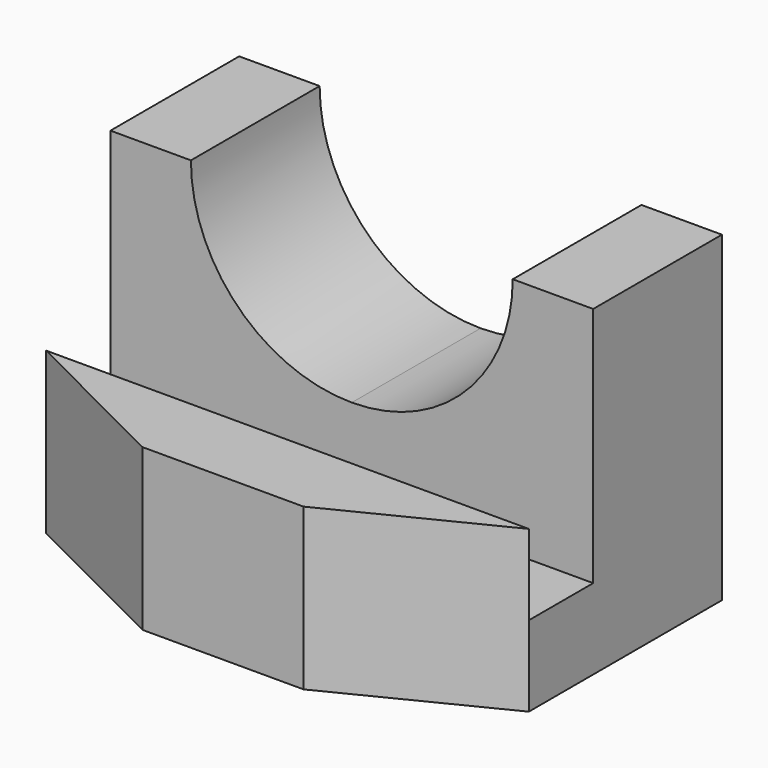
from build123d import *

# Parameters (mm, degrees)
F0_W     = 10
F0_H     = 20
F0_W_2   = 40
F1_DEPTH = 40
F2_DEPTH = 10
F3_DEPTH = 20
F5_DEPTH = 20


with BuildPart() as f1:
    # F0 (on Top) → F1 (new body)
    with BuildSketch(Plane.XY):
        with Locations((5, 30)):
            Rectangle(F0_W, F0_H)
        with Locations((30, 30)):
            Rectangle(F0_W_2, F0_H)
        with Locations((55, 30)):
            Rectangle(F0_W, F0_H)
    extrude(amount=F1_DEPTH)

    # F0 (on Top) → F2 (join)
    with BuildSketch(Plane.XY):
        Polygon((0, 20), (0, 10), (60, 10), (60, 20), (50, 20), (10, 20), align=None)
    extrude(amount=F2_DEPTH)

    # F0 (on Top) → F3 (join)
    with BuildSketch(Plane.XY):
        Polygon((0, 10), (20, 0), (40, 0), (60, 10), align=None)
    extrude(amount=F3_DEPTH)

    # F4 (on face) → F5 (cut)
    with BuildSketch(Plane.XZ.offset(-20)):
        with BuildLine():
            Line((50, 40), (10, 40))
            ThreePointArc((10, 40), (15.8578643763, 25.8578643763), (30, 20))
            ThreePointArc((30, 20), (44.1421356237, 25.8578643763), (50, 40))
        make_face()
    extrude(amount=-F5_DEPTH, mode=Mode.SUBTRACT)


solid = f1.part
